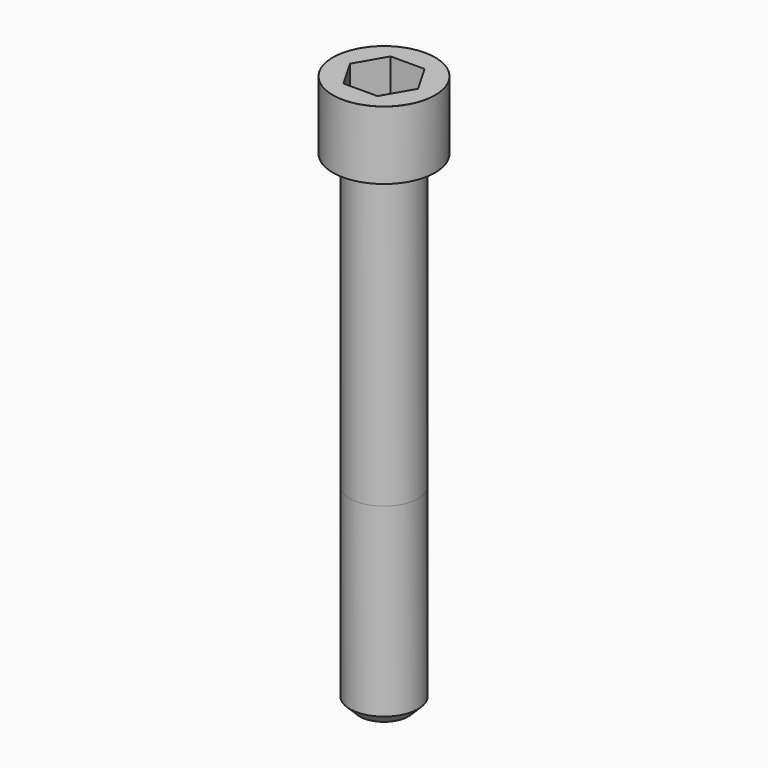
from build123d import *

# Parameters (mm, degrees)
POCKET_DEPTH = 12.07


with BuildPart() as part:
    # Sketch → Revolve (revolve)
    with BuildSketch(Plane.YZ):
        with BuildLine():
            Line((6.999, 0), (10.5, 0))
            Line((10.5, 0), (10.5, 13.97229))
            ThreePointArc((10.5, 13.97229), (10.491884, 13.991884), (10.47229, 14))
            Line((10.47229, 14), (0, 14))
            Line((0, -100), (0, 14))
            Line((5, -100), (0, -100))
            Line((7, -98), (5, -100))
            Line((7, -60), (7, -98))
            Line((6.999, 0), (7, -60))
        make_face()
    revolve(axis=Axis((0, 0, 0), (0, 0, 1)))

    # Sketch001 → Pocket (cut)
    with BuildSketch(Plane.XY.offset(14)):
        Polygon((6.968618, 0), (3.484309, 6.035), (-3.484309, 6.035), (-6.968618, 0), (-3.484309, -6.035), (3.484309, -6.035), align=None)
    extrude(amount=-POCKET_DEPTH, mode=Mode.SUBTRACT)


solid = part.part
